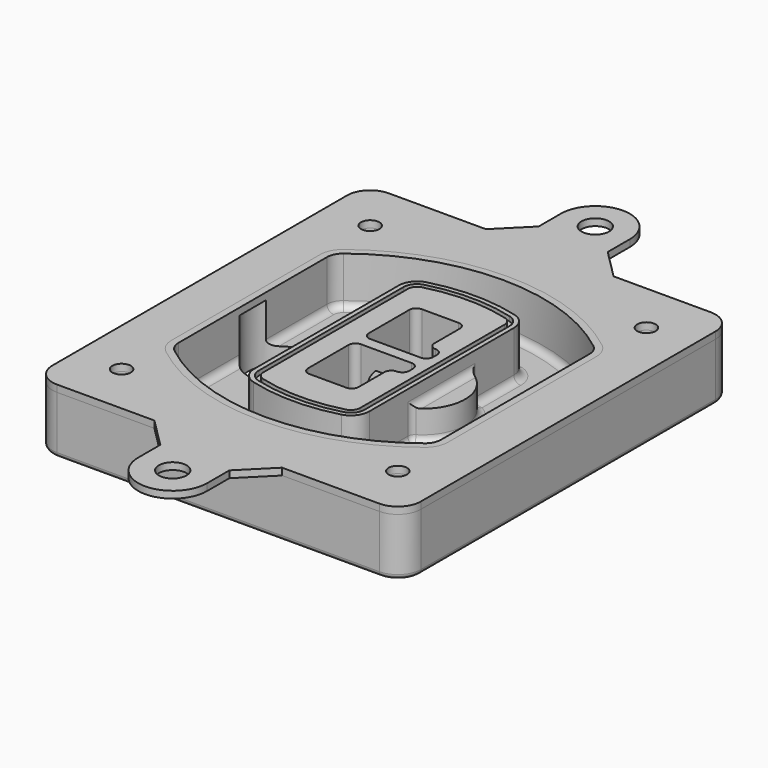
from build123d import *

# Parameters (mm, degrees)
F0_R      = 4
F1_DEPTH  = 25
F2_DEPTH  = 3
F3_DEPTH  = 18
F5_DEPTH  = 21
F6_DEPTH  = 2
F8_DEPTH  = 20
F9_DEPTH  = 16
F10_DEPTH = 25
F12_DEPTH = 9
F13_R     = 3
F14_R     = 2
F15_R     = 6
F15_R_2   = 4
F16_DEPTH = 3


with BuildPart() as f1:
    # F0 (on Top) → F1 (new body)
    with BuildSketch(Plane.XY):
        with BuildLine():
            ThreePointArc((-80, -80), (-77.0710678119, -87.0710678119), (-70, -90))
            Line((-70, -90), (70, -90))
            ThreePointArc((70, -90), (77.0710678119, -87.0710678119), (80, -80))
            Line((80, -80), (80, 80))
            ThreePointArc((80, 80), (77.0710678119, 87.0710678119), (70, 90))
            Line((70, 90), (-70, 90))
            ThreePointArc((-70, 90), (-77.0710678119, 87.0710678119), (-80, 80))
            Line((-80, 80), (-80, -80))
        make_face()
        with Locations((-60, -67.5)):
            Circle(F0_R, mode=Mode.SUBTRACT)
        with Locations((60, -67.5)):
            Circle(F0_R, mode=Mode.SUBTRACT)
        with Locations((-60, 67.5)):
            Circle(F0_R, mode=Mode.SUBTRACT)
        with BuildLine():
            ThreePointArc((-64, 40.2934422872), (-62.5820384798, 46.4328484224), (-58.6153846154, 51.3286200352))
            ThreePointArc((-58.6153846154, 51.3286200352), (0, 71.5), (58.6153846154, 51.3286200352))
            ThreePointArc((58.6153846154, 51.3286200352), (62.5820384798, 46.4328484224), (64, 40.2934422872))
            Line((64, 40.2934422872), (64, -40.2934422872))
            ThreePointArc((64, -40.2934422872), (62.5820384798, -46.4328484224), (58.6153846154, -51.3286200352))
            ThreePointArc((58.6153846154, -51.3286200352), (0, -71.5), (-58.6153846154, -51.3286200352))
            ThreePointArc((-58.6153846154, -51.3286200352), (-62.5820384798, -46.4328484224), (-64, -40.2934422872))
            Line((-64, -40.2934422872), (-64, 40.2934422872))
        make_face(mode=Mode.SUBTRACT)
        with Locations((60, 67.5)):
            Circle(F0_R, mode=Mode.SUBTRACT)
        with BuildLine():
            ThreePointArc((58.6153846154, 51.3286200352), (0, 71.5), (-58.6153846154, 51.3286200352))
            ThreePointArc((-58.6153846154, 51.3286200352), (-62.5820384798, 46.4328484224), (-64, 40.2934422872))
            Line((-64, 40.2934422872), (-64, -40.2934422872))
            ThreePointArc((-64, -40.2934422872), (-62.5820384798, -46.4328484224), (-58.6153846154, -51.3286200352))
            ThreePointArc((-58.6153846154, -51.3286200352), (0, -71.5), (58.6153846154, -51.3286200352))
            ThreePointArc((58.6153846154, -51.3286200352), (62.5820384798, -46.4328484224), (64, -40.2934422872))
            Line((64, -40.2934422872), (64, 40.2934422872))
            ThreePointArc((64, 40.2934422872), (62.5820384798, 46.4328484224), (58.6153846154, 51.3286200352))
        make_face()
        with BuildLine():
            Line((-60, -40.2934422872), (-60, 40.2934422872))
            ThreePointArc((-60, 40.2934422872), (-58.9871703427, 44.6787323838), (-56.1538461538, 48.1757121072))
            ThreePointArc((-56.1538461538, 48.1757121072), (0, 67.5), (56.1538461538, 48.1757121072))
            ThreePointArc((56.1538461538, 48.1757121072), (58.9871703427, 44.6787323838), (60, 40.2934422872))
            Line((60, 40.2934422872), (60, -40.2934422872))
            ThreePointArc((60, -40.2934422872), (58.9871703427, -44.6787323838), (56.1538461538, -48.1757121072))
            ThreePointArc((56.1538461538, -48.1757121072), (0, -67.5), (-56.1538461538, -48.1757121072))
            ThreePointArc((-56.1538461538, -48.1757121072), (-58.9871703427, -44.6787323838), (-60, -40.2934422872))
        make_face(mode=Mode.SUBTRACT)
        with BuildLine():
            ThreePointArc((-56.1538461538, 48.1757121072), (-58.9871703427, 44.6787323838), (-60, 40.2934422872))
            Line((-60, 40.2934422872), (-60, -40.2934422872))
            ThreePointArc((-60, -40.2934422872), (-58.9871703427, -44.6787323838), (-56.1538461538, -48.1757121072))
            ThreePointArc((-56.1538461538, -48.1757121072), (0, -67.5), (56.1538461538, -48.1757121072))
            ThreePointArc((56.1538461538, -48.1757121072), (58.9871703427, -44.6787323838), (60, -40.2934422872))
            Line((60, -40.2934422872), (60, 40.2934422872))
            ThreePointArc((60, 40.2934422872), (58.9871703427, 44.6787323838), (56.1538461538, 48.1757121072))
            ThreePointArc((56.1538461538, 48.1757121072), (0, 67.5), (-56.1538461538, 48.1757121072))
        make_face()
        with BuildLine():
            ThreePointArc((54.3076923077, 45.8110311612), (56.2910192399, 43.3631453548), (57, 40.2934422872))
            Line((57, 40.2934422872), (57, -40.2934422872))
            ThreePointArc((57, -40.2934422872), (56.2910192399, -43.3631453548), (54.3076923077, -45.8110311612))
            ThreePointArc((54.3076923077, -45.8110311612), (0, -64.5), (-54.3076923077, -45.8110311612))
            ThreePointArc((-54.3076923077, -45.8110311612), (-56.2910192399, -43.3631453548), (-57, -40.2934422872))
            Line((-57, -40.2934422872), (-57, 40.2934422872))
            ThreePointArc((-57, 40.2934422872), (-56.2910192399, 43.3631453548), (-54.3076923077, 45.8110311612))
            ThreePointArc((-54.3076923077, 45.8110311612), (0, 64.5), (54.3076923077, 45.8110311612))
        make_face(mode=Mode.SUBTRACT)
        with BuildLine():
            Line((57, -40.2934422872), (57, 40.2934422872))
            ThreePointArc((57, 40.2934422872), (56.2910192399, 43.3631453548), (54.3076923077, 45.8110311612))
            ThreePointArc((54.3076923077, 45.8110311612), (0, 64.5), (-54.3076923077, 45.8110311612))
            ThreePointArc((-54.3076923077, 45.8110311612), (-56.2910192399, 43.3631453548), (-57, 40.2934422872))
            Line((-57, 40.2934422872), (-57, -40.2934422872))
            ThreePointArc((-57, -40.2934422872), (-56.2910192399, -43.3631453548), (-54.3076923077, -45.8110311612))
            ThreePointArc((-54.3076923077, -45.8110311612), (0, -64.5), (54.3076923077, -45.8110311612))
            ThreePointArc((54.3076923077, -45.8110311612), (56.2910192399, -43.3631453548), (57, -40.2934422872))
        make_face()
    extrude(amount=-F1_DEPTH)

    # F0 (on Top) → F2 (join)
    with BuildSketch(Plane.XY):
        with BuildLine():
            ThreePointArc((-56.1538461538, 48.1757121072), (-58.9871703427, 44.6787323838), (-60, 40.2934422872))
            Line((-60, 40.2934422872), (-60, -40.2934422872))
            ThreePointArc((-60, -40.2934422872), (-58.9871703427, -44.6787323838), (-56.1538461538, -48.1757121072))
            ThreePointArc((-56.1538461538, -48.1757121072), (0, -67.5), (56.1538461538, -48.1757121072))
            ThreePointArc((56.1538461538, -48.1757121072), (58.9871703427, -44.6787323838), (60, -40.2934422872))
            Line((60, -40.2934422872), (60, 40.2934422872))
            ThreePointArc((60, 40.2934422872), (58.9871703427, 44.6787323838), (56.1538461538, 48.1757121072))
            ThreePointArc((56.1538461538, 48.1757121072), (0, 67.5), (-56.1538461538, 48.1757121072))
        make_face()
        with BuildLine():
            ThreePointArc((54.3076923077, 45.8110311612), (56.2910192399, 43.3631453548), (57, 40.2934422872))
            Line((57, 40.2934422872), (57, -40.2934422872))
            ThreePointArc((57, -40.2934422872), (56.2910192399, -43.3631453548), (54.3076923077, -45.8110311612))
            ThreePointArc((54.3076923077, -45.8110311612), (0, -64.5), (-54.3076923077, -45.8110311612))
            ThreePointArc((-54.3076923077, -45.8110311612), (-56.2910192399, -43.3631453548), (-57, -40.2934422872))
            Line((-57, -40.2934422872), (-57, 40.2934422872))
            ThreePointArc((-57, 40.2934422872), (-56.2910192399, 43.3631453548), (-54.3076923077, 45.8110311612))
            ThreePointArc((-54.3076923077, 45.8110311612), (0, 64.5), (54.3076923077, 45.8110311612))
        make_face(mode=Mode.SUBTRACT)
    extrude(amount=F2_DEPTH)

    # F0 (on Top) → F3 (cut)
    with BuildSketch(Plane.XY):
        with BuildLine():
            Line((57, -40.2934422872), (57, 40.2934422872))
            ThreePointArc((57, 40.2934422872), (56.2910192399, 43.3631453548), (54.3076923077, 45.8110311612))
            ThreePointArc((54.3076923077, 45.8110311612), (0, 64.5), (-54.3076923077, 45.8110311612))
            ThreePointArc((-54.3076923077, 45.8110311612), (-56.2910192399, 43.3631453548), (-57, 40.2934422872))
            Line((-57, 40.2934422872), (-57, -40.2934422872))
            ThreePointArc((-57, -40.2934422872), (-56.2910192399, -43.3631453548), (-54.3076923077, -45.8110311612))
            ThreePointArc((-54.3076923077, -45.8110311612), (0, -64.5), (54.3076923077, -45.8110311612))
            ThreePointArc((54.3076923077, -45.8110311612), (56.2910192399, -43.3631453548), (57, -40.2934422872))
        make_face()
    extrude(amount=-F3_DEPTH, mode=Mode.SUBTRACT)

    # F4 (on face) → F5 (join, through all)
    with BuildSketch(Plane.XY.offset(3)):
        with BuildLine():
            ThreePointArc((-25, -39.2465276821), (-23.3511545998, -44.1109737193), (-19.0842911877, -46.9702398883))
            ThreePointArc((-19.0842911877, -46.9702398883), (0, -49.5), (19.0842911877, -46.9702398883))
            ThreePointArc((19.0842911877, -46.9702398883), (23.3511545998, -44.1109737193), (25, -39.2465276821))
            Line((25, -39.2465276821), (25, 39.2465276821))
            ThreePointArc((25, 39.2465276821), (23.3511545998, 44.1109737193), (19.0842911877, 46.9702398883))
            ThreePointArc((19.0842911877, 46.9702398883), (0, 49.5), (-19.0842911877, 46.9702398883))
            ThreePointArc((-19.0842911877, 46.9702398883), (-23.3511545998, 44.1109737193), (-25, 39.2465276821))
            Line((-25, 39.2465276821), (-25, -39.2465276821))
        make_face()
        with BuildLine():
            ThreePointArc((18.5632183908, 45.0393118368), (21.7633659499, 42.89486221), (23, 39.2465276821))
            Line((23, 39.2465276821), (23, -39.2465276821))
            ThreePointArc((23, -39.2465276821), (21.7633659499, -42.89486221), (18.5632183908, -45.0393118368))
            ThreePointArc((18.5632183908, -45.0393118368), (0, -47.5), (-18.5632183908, -45.0393118368))
            ThreePointArc((-18.5632183908, -45.0393118368), (-21.7633659499, -42.89486221), (-23, -39.2465276821))
            Line((-23, -39.2465276821), (-23, 39.2465276821))
            ThreePointArc((-23, 39.2465276821), (-21.7633659499, 42.89486221), (-18.5632183908, 45.0393118368))
            ThreePointArc((-18.5632183908, 45.0393118368), (0, 47.5), (18.5632183908, 45.0393118368))
        make_face(mode=Mode.SUBTRACT)
        with BuildLine():
            Line((23, -39.2465276821), (23, 39.2465276821))
            ThreePointArc((23, 39.2465276821), (21.7633659499, 42.89486221), (18.5632183908, 45.0393118368))
            ThreePointArc((18.5632183908, 45.0393118368), (0, 47.5), (-18.5632183908, 45.0393118368))
            ThreePointArc((-18.5632183908, 45.0393118368), (-21.7633659499, 42.89486221), (-23, 39.2465276821))
            Line((-23, 39.2465276821), (-23, -39.2465276821))
            ThreePointArc((-23, -39.2465276821), (-21.7633659499, -42.89486221), (-18.5632183908, -45.0393118368))
            ThreePointArc((-18.5632183908, -45.0393118368), (0, -47.5), (18.5632183908, -45.0393118368))
            ThreePointArc((18.5632183908, -45.0393118368), (21.7633659499, -42.89486221), (23, -39.2465276821))
        make_face()
        with BuildLine():
            ThreePointArc((18.0421455939, 43.1083837852), (20.1755772999, 41.6787507007), (21, 39.2465276821))
            Line((21, 39.2465276821), (21, -39.2465276821))
            ThreePointArc((21, -39.2465276821), (20.1755772999, -41.6787507007), (18.0421455939, -43.1083837852))
            ThreePointArc((18.0421455939, -43.1083837852), (0, -45.5), (-18.0421455939, -43.1083837852))
            ThreePointArc((-18.0421455939, -43.1083837852), (-20.1755772999, -41.6787507007), (-21, -39.2465276821))
            Line((-21, -39.2465276821), (-21, 39.2465276821))
            ThreePointArc((-21, 39.2465276821), (-20.1755772999, 41.6787507007), (-18.0421455939, 43.1083837852))
            ThreePointArc((-18.0421455939, 43.1083837852), (0, 45.5), (18.0421455939, 43.1083837852))
        make_face(mode=Mode.SUBTRACT)
        with BuildLine():
            Line((21, -39.2465276821), (21, 39.2465276821))
            ThreePointArc((21, 39.2465276821), (20.1755772999, 41.6787507007), (18.0421455939, 43.1083837852))
            ThreePointArc((18.0421455939, 43.1083837852), (0, 45.5), (-18.0421455939, 43.1083837852))
            ThreePointArc((-18.0421455939, 43.1083837852), (-20.1755772999, 41.6787507007), (-21, 39.2465276821))
            Line((-21, 39.2465276821), (-21, -39.2465276821))
            ThreePointArc((-21, -39.2465276821), (-20.1755772999, -41.6787507007), (-18.0421455939, -43.1083837852))
            ThreePointArc((-18.0421455939, -43.1083837852), (0, -45.5), (18.0421455939, -43.1083837852))
            ThreePointArc((18.0421455939, -43.1083837852), (20.1755772999, -41.6787507007), (21, -39.2465276821))
        make_face()
        with BuildLine():
            Line((-8, -2.5), (14, -2.5))
            ThreePointArc((14, -2.5), (16.1213203436, -3.3786796564), (17, -5.5))
            Line((17, -5.5), (17, -7.5))
            ThreePointArc((17, -7.5), (16.1213203436, -9.6213203436), (14, -10.5))
            ThreePointArc((14, -10.5), (11.8786796564, -11.3786796564), (11, -13.5))
            Line((11, -13.5), (11, -27.5))
            ThreePointArc((11, -27.5), (10.1213203436, -29.6213203436), (8, -30.5))
            Line((8, -30.5), (-8, -30.5))
            ThreePointArc((-8, -30.5), (-10.1213203436, -29.6213203436), (-11, -27.5))
            Line((-11, -27.5), (-11, -5.5))
            ThreePointArc((-11, -5.5), (-10.1213203436, -3.3786796564), (-8, -2.5))
        make_face(mode=Mode.SUBTRACT)
        with BuildLine():
            ThreePointArc((-8, 2.5), (-10.1213203436, 3.3786796564), (-11, 5.5))
            Line((-11, 5.5), (-11, 27.5))
            ThreePointArc((-11, 27.5), (-10.1213203436, 29.6213203436), (-8, 30.5))
            Line((-8, 30.5), (8, 30.5))
            ThreePointArc((8, 30.5), (10.1213203436, 29.6213203436), (11, 27.5))
            Line((11, 27.5), (11, 13.5))
            ThreePointArc((11, 13.5), (11.8786796564, 11.3786796564), (14, 10.5))
            ThreePointArc((14, 10.5), (16.1213203436, 9.6213203436), (17, 7.5))
            Line((17, 7.5), (17, 5.5))
            ThreePointArc((17, 5.5), (16.1213203436, 3.3786796564), (14, 2.5))
            Line((14, 2.5), (-8, 2.5))
        make_face(mode=Mode.SUBTRACT)
    extrude(amount=-F5_DEPTH)

    # F4 (on face) → F6 (cut)
    with BuildSketch(Plane.XY.offset(3)):
        with BuildLine():
            Line((23, -39.2465276821), (23, 39.2465276821))
            ThreePointArc((23, 39.2465276821), (21.7633659499, 42.89486221), (18.5632183908, 45.0393118368))
            ThreePointArc((18.5632183908, 45.0393118368), (0, 47.5), (-18.5632183908, 45.0393118368))
            ThreePointArc((-18.5632183908, 45.0393118368), (-21.7633659499, 42.89486221), (-23, 39.2465276821))
            Line((-23, 39.2465276821), (-23, -39.2465276821))
            ThreePointArc((-23, -39.2465276821), (-21.7633659499, -42.89486221), (-18.5632183908, -45.0393118368))
            ThreePointArc((-18.5632183908, -45.0393118368), (0, -47.5), (18.5632183908, -45.0393118368))
            ThreePointArc((18.5632183908, -45.0393118368), (21.7633659499, -42.89486221), (23, -39.2465276821))
        make_face()
        with BuildLine():
            ThreePointArc((18.0421455939, 43.1083837852), (20.1755772999, 41.6787507007), (21, 39.2465276821))
            Line((21, 39.2465276821), (21, -39.2465276821))
            ThreePointArc((21, -39.2465276821), (20.1755772999, -41.6787507007), (18.0421455939, -43.1083837852))
            ThreePointArc((18.0421455939, -43.1083837852), (0, -45.5), (-18.0421455939, -43.1083837852))
            ThreePointArc((-18.0421455939, -43.1083837852), (-20.1755772999, -41.6787507007), (-21, -39.2465276821))
            Line((-21, -39.2465276821), (-21, 39.2465276821))
            ThreePointArc((-21, 39.2465276821), (-20.1755772999, 41.6787507007), (-18.0421455939, 43.1083837852))
            ThreePointArc((-18.0421455939, 43.1083837852), (0, 45.5), (18.0421455939, 43.1083837852))
        make_face(mode=Mode.SUBTRACT)
    extrude(amount=-F6_DEPTH, mode=Mode.SUBTRACT)

    # F7 (on face) → F8 (join)
    with BuildSketch(Plane(origin=(0, 0, -25), x_dir=(1, 0, 0), z_dir=(0, 0, -1))):
        with BuildLine():
            ThreePointArc((3.28842436, 0), (16.7567035675, 13.4682792075), (30.224982775, 0))
            Line((30.224982775, 0), (35.224982775, 0))
            ThreePointArc((35.224982775, 0), (16.7567035675, 18.4682792075), (-1.71157564, 0))
            Line((-1.71157564, 0), (3.28842436, 0))
        make_face()
        with BuildLine():
            Line((3.28842436, 0), (30.224982775, 0))
            ThreePointArc((30.224982775, 0), (16.7567035675, 13.4682792075), (3.28842436, 0))
        make_face()
        with BuildLine():
            ThreePointArc((3.28842436, 0), (16.7567035675, -13.4682792075), (30.224982775, 0))
            Line((30.224982775, 0), (3.28842436, 0))
        make_face()
        with BuildLine():
            Line((35.224982775, 0), (30.224982775, 0))
            ThreePointArc((30.224982775, 0), (16.7567035675, -13.4682792075), (3.28842436, 0))
            Line((3.28842436, 0), (-1.71157564, 0))
            ThreePointArc((-1.71157564, 0), (16.7567035675, -18.4682792075), (35.224982775, 0))
        make_face()
    extrude(amount=-F8_DEPTH)

    # F7 (on face) → F9 (cut)
    with BuildSketch(Plane(origin=(0, 0, -25), x_dir=(1, 0, 0), z_dir=(0, 0, -1))):
        with BuildLine():
            Line((3.28842436, 0), (30.224982775, 0))
            ThreePointArc((30.224982775, 0), (16.7567035675, 13.4682792075), (3.28842436, 0))
        make_face()
        with BuildLine():
            ThreePointArc((3.28842436, 0), (16.7567035675, -13.4682792075), (30.224982775, 0))
            Line((30.224982775, 0), (3.28842436, 0))
        make_face()
    extrude(amount=-F9_DEPTH, mode=Mode.SUBTRACT)

    # F7 (on face) → F10 (cut)
    with BuildSketch(Plane(origin=(0, 0, -25), x_dir=(1, 0, 0), z_dir=(0, 0, -1))):
        with BuildLine():
            Line((-59.0318229325, 0), (-32.0952645175, 0))
            ThreePointArc((-32.0952645175, 0), (-45.563543725, 13.4682792075), (-59.0318229325, 0))
        make_face()
        with BuildLine():
            ThreePointArc((-59.0318229325, 0), (-45.563543725, -13.4682792075), (-32.0952645175, 0))
            Line((-32.0952645175, 0), (-59.0318229325, 0))
        make_face()
    extrude(amount=-F10_DEPTH, mode=Mode.SUBTRACT)

    # F11 (on face) → F12 (cut, through all)
    with BuildSketch(Plane(origin=(0, 0, -9), x_dir=(1, 0, 0), z_dir=(0, 0, -1))):
        with BuildLine():
            Line((11, 13.5), (11, 17.5481537753))
            ThreePointArc((11, 17.5481537753), (2.5696536419, 11.8239143813), (-1.5415842455, 2.5))
            Line((-1.5415842455, 2.5), (3.5224848595, 2.5))
            ThreePointArc((3.5224848595, 2.5), (6.1857188154, 8.3455872281), (11.2536447004, 12.2927168648))
            ThreePointArc((11.2536447004, 12.2927168648), (11.0640958889, 12.8831798879), (11, 13.5))
        make_face()
        with BuildLine():
            ThreePointArc((11.2536447004, -12.2927168648), (6.1857188154, -8.3455872281), (3.5224848595, -2.5))
            Line((3.5224848595, -2.5), (-1.5415842455, -2.5))
            ThreePointArc((-1.5415842455, -2.5), (2.5696536419, -11.8239143813), (11, -17.5481537753))
            Line((11, -17.5481537753), (11, -13.5))
            ThreePointArc((11, -13.5), (11.0640958889, -12.8831798879), (11.2536447004, -12.2927168648))
        make_face()
        with BuildLine():
            ThreePointArc((11.2536447004, 12.2927168648), (6.1857188154, 8.3455872281), (3.5224848595, 2.5))
            Line((3.5224848595, 2.5), (14, 2.5))
            ThreePointArc((14, 2.5), (16.1213203436, 3.3786796564), (17, 5.5))
            Line((17, 5.5), (17, 7.5))
            ThreePointArc((17, 7.5), (16.1213203436, 9.6213203436), (14, 10.5))
            ThreePointArc((14, 10.5), (12.3601599782, 10.9878446101), (11.2536447004, 12.2927168648))
        make_face()
        with BuildLine():
            Line((14, -2.5), (3.5224848595, -2.5))
            ThreePointArc((3.5224848595, -2.5), (6.1857188154, -8.3455872281), (11.2536447004, -12.2927168648))
            ThreePointArc((11.2536447004, -12.2927168648), (12.3601599782, -10.9878446101), (14, -10.5))
            ThreePointArc((14, -10.5), (16.1213203436, -9.6213203436), (17, -7.5))
            Line((17, -7.5), (17, -5.5))
            ThreePointArc((17, -5.5), (16.1213203436, -3.3786796564), (14, -2.5))
        make_face()
    extrude(amount=F12_DEPTH, mode=Mode.SUBTRACT)

    # F13
    f13_edges = [f1.edges().sort_by_distance(p)[0] for p in [
        (-57, -23.703476, -18),
        (-57, 23.703476, -18),
        (25, 0, -5),
        (25, 16.526506, -11.5),
        (25, -16.526506, -11.5),
        (25, -27.886517, -18),
        (35.224983, 0, -18),
    ]]
    fillet(f13_edges, radius=F13_R)

    # F14
    f14_edges = [f1.edges().sort_by_distance(p)[0] for p in [
        (0, -90, -25),
    ]]
    fillet(f14_edges, radius=F14_R)


with BuildPart() as f16:
    # F15 (on face) → F16 (new body, through all)
    with BuildSketch(Plane.XY):
        with BuildLine():
            Line((-15, 102.7279220614), (-27.7279220614, 90))
            Line((-27.7279220614, 90), (27.7279220614, 90))
            Line((27.7279220614, 90), (15, 102.7279220614))
            Line((15, 102.7279220614), (15, 114.7279220614))
            ThreePointArc((15, 114.7279220614), (10.6066017178, 125.3345237792), (0, 129.7279220614))
            ThreePointArc((0, 129.7279220614), (-10.6066017178, 125.3345237792), (-15, 114.7279220614))
            Line((-15, 114.7279220614), (-15, 102.7279220614))
        make_face()
        with Locations((0, 114.7279220614)):
            Circle(F15_R, mode=Mode.SUBTRACT)
        with BuildLine():
            Line((27.7279220614, 90), (-27.7279220614, 90))
            Line((-27.7279220614, 90), (-70, 90))
            ThreePointArc((-70, 90), (-77.0710678119, 87.0710678119), (-80, 80))
            Line((-80, 80), (-80, -80))
            ThreePointArc((-80, -80), (-77.0710678119, -87.0710678119), (-70, -90))
            Line((-70, -90), (-27.7279220614, -90))
            Line((-27.7279220614, -90), (27.7279220614, -90))
            Line((27.7279220614, -90), (70, -90))
            ThreePointArc((70, -90), (77.0710678119, -87.0710678119), (80, -80))
            Line((80, -80), (80, 80))
            ThreePointArc((80, 80), (77.0710678119, 87.0710678119), (70, 90))
            Line((70, 90), (27.7279220614, 90))
        make_face()
        with Locations((-60, -67.5)):
            Circle(F15_R_2, mode=Mode.SUBTRACT)
        with Locations((60, -67.5)):
            Circle(F15_R_2, mode=Mode.SUBTRACT)
        with Locations((-60, 67.5)):
            Circle(F15_R_2, mode=Mode.SUBTRACT)
        with BuildLine():
            ThreePointArc((-60, 40.2934422872), (-58.9871703427, 44.6787323838), (-56.1538461538, 48.1757121072))
            ThreePointArc((-56.1538461538, 48.1757121072), (0, 67.5), (56.1538461538, 48.1757121072))
            ThreePointArc((56.1538461538, 48.1757121072), (58.9871703427, 44.6787323838), (60, 40.2934422872))
            Line((60, 40.2934422872), (60, -40.2934422872))
            ThreePointArc((60, -40.2934422872), (58.9871703427, -44.6787323838), (56.1538461538, -48.1757121072))
            ThreePointArc((56.1538461538, -48.1757121072), (0, -67.5), (-56.1538461538, -48.1757121072))
            ThreePointArc((-56.1538461538, -48.1757121072), (-58.9871703427, -44.6787323838), (-60, -40.2934422872))
            Line((-60, -40.2934422872), (-60, 40.2934422872))
        make_face(mode=Mode.SUBTRACT)
        with Locations((60, 67.5)):
            Circle(F15_R_2, mode=Mode.SUBTRACT)
        with BuildLine():
            Line((27.7279220614, -90), (-27.7279220614, -90))
            Line((-27.7279220614, -90), (-15, -102.7279220614))
            Line((-15, -102.7279220614), (-15, -114.7279220614))
            ThreePointArc((-15, -114.7279220614), (-10.6066017178, -125.3345237792), (0, -129.7279220614))
            ThreePointArc((0, -129.7279220614), (10.6066017178, -125.3345237792), (15, -114.7279220614))
            Line((15, -114.7279220614), (15, -102.7279220614))
            Line((15, -102.7279220614), (27.7279220614, -90))
        make_face()
        with Locations((0, -114.7279220614)):
            Circle(F15_R, mode=Mode.SUBTRACT)
    extrude(amount=F16_DEPTH)


solid = Compound([f1.part, f16.part])
